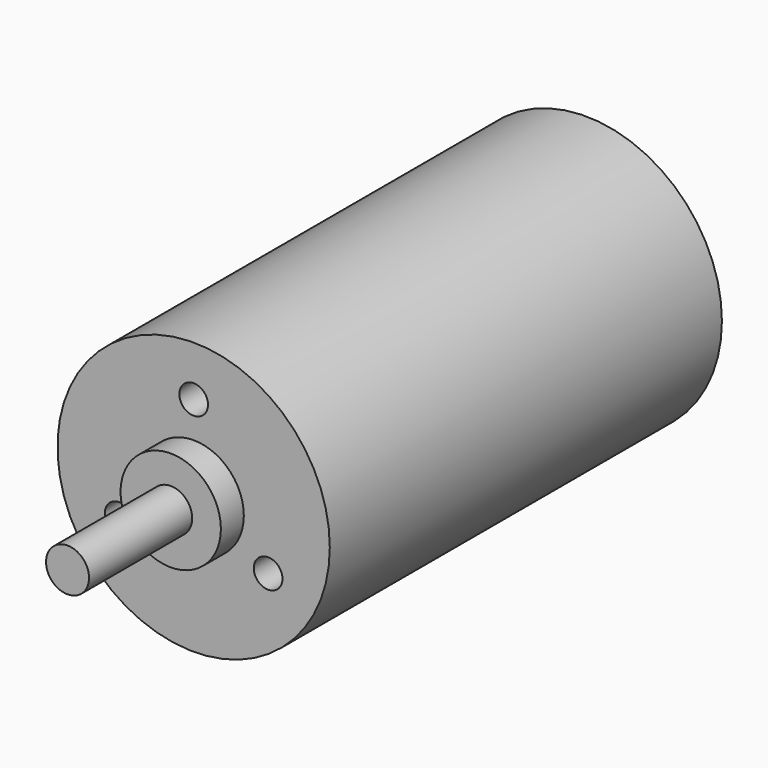
from build123d import *

# Parameters (mm, degrees)
F0_R     = 9.5
F1_DEPTH = 34.2
F2_R     = 3.5
F3_DEPTH = 2
F4_R     = 1.5
F5_DEPTH = 9
F7_D     = 2
F7_DEPTH = 3
F7_TIP   = 0.600860619


with BuildPart() as f1:
    # F0 (on Front) → F1 (new body)
    with BuildSketch(Plane.XZ):
        Circle(F0_R)
    extrude(amount=F1_DEPTH)

    # F2 (on face) → F3 (join)
    with BuildSketch(Plane.XZ.offset(34.2)):
        Circle(F2_R)
    extrude(amount=F3_DEPTH)

    # F4 (on face) → F5 (join)
    with BuildSketch(Plane.XZ.offset(36.2)):
        Circle(F4_R)
    extrude(amount=F5_DEPTH)

    # F7
    with Locations(Plane.XZ.offset(34.2)):
        with Locations((0, 6), (-5.1961524227, -3), (5.1961524227, -3)):
            Hole(F7_D / 2, depth=F7_DEPTH)
            with Locations((0, 0, -(F7_DEPTH + F7_TIP / 2))):  # 118° drill point
                Cone(0, F7_D / 2, F7_TIP, mode=Mode.SUBTRACT)


solid = f1.part
